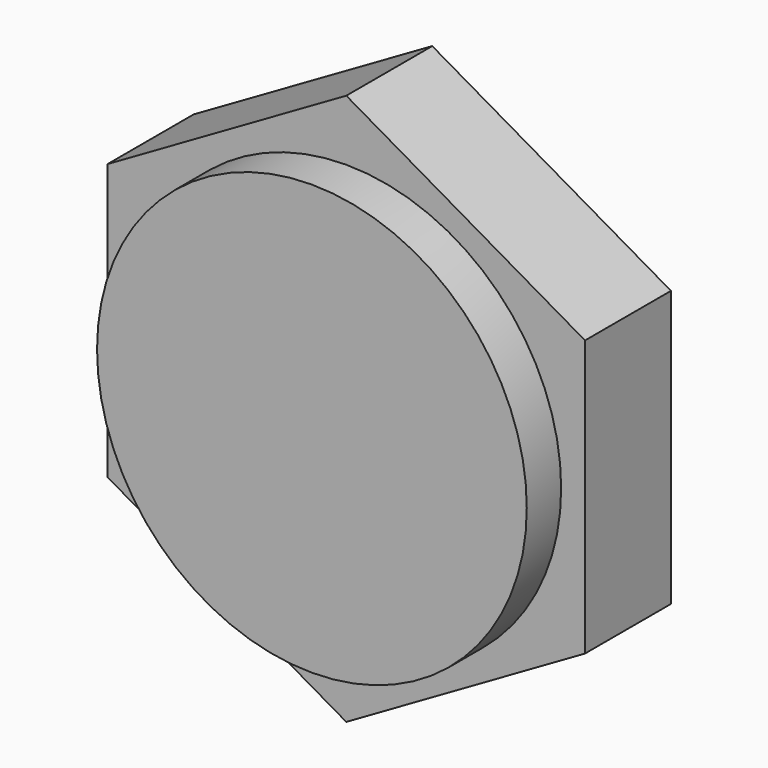
from build123d import *

# Parameters (mm, degrees)
F0_R     = 5
F1_DEPTH = 2.5
F2_DEPTH = 3.5


with BuildPart() as f1:
    # F0 (on Front) → F1 (new body)
    with BuildSketch(Plane.XZ):
        Circle(F0_R)
        Polygon((5.555, -3.207181), (5.555, 3.207181), (0, 6.414361), (-5.555, 3.207181), (-5.555, -3.207181), (0, -6.414361), align=None)
        Circle(F0_R, mode=Mode.SUBTRACT)
    extrude(amount=F1_DEPTH)

    # F0 (on Front) → F2 (join)
    with BuildSketch(Plane.XZ):
        Circle(F0_R)
    extrude(amount=F2_DEPTH)


solid = f1.part
